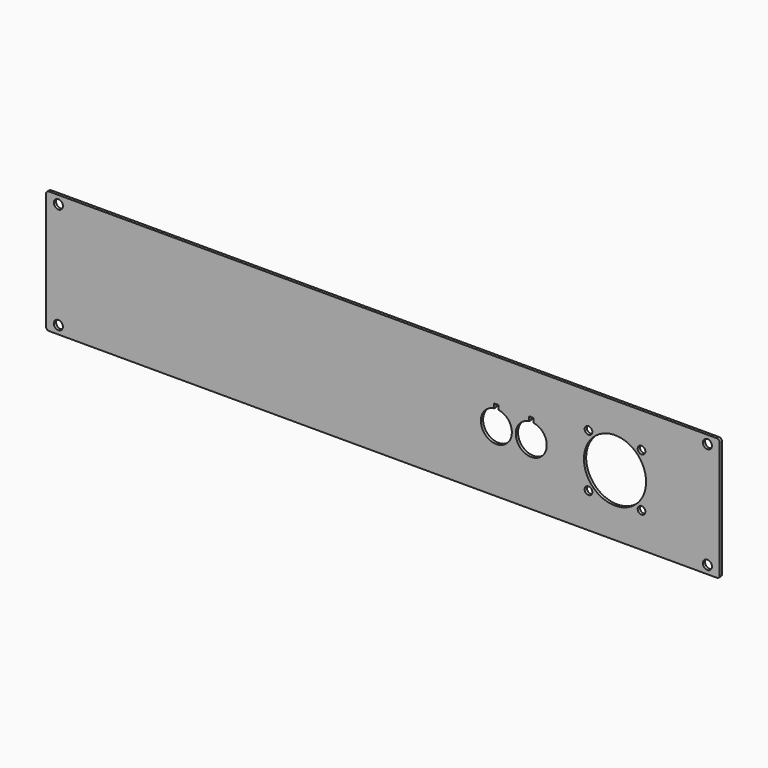
from build123d import *

# Parameters (mm, degrees)
F0_W     = 482.6
F0_H     = 88
F0_R     = 3.25
F0_R_2   = 2.75
F0_R_3   = 22.25
F1_DEPTH = 1
F2_R     = 2


with BuildPart() as f1:
    # F0 (on Front) → F1 (new body, symmetric)
    with BuildSketch(Plane.XZ):
        Rectangle(F0_W, F0_H)
        with Locations((-232.5, -38.075)):
            Circle(F0_R, mode=Mode.SUBTRACT)
        with Locations((232.5, -38.075)):
            Circle(F0_R, mode=Mode.SUBTRACT)
        with Locations((147.3, -19)):
            Circle(F0_R_2, mode=Mode.SUBTRACT)
        with Locations((185.3, -19)):
            Circle(F0_R_2, mode=Mode.SUBTRACT)
        with Locations((-232.5, 38.075)):
            Circle(F0_R, mode=Mode.SUBTRACT)
        with BuildLine():
            ThreePointArc((82.786364, 11.000033), (81.313763, -11.099991), (79.786364, 10.996313))
            Line((79.786364, 10.996313), (79.786364, 14.099066))
            Line((79.786364, 14.099066), (82.786364, 14.099066))
            Line((82.786364, 14.099066), (82.786364, 11.000033))
        make_face(mode=Mode.SUBTRACT)
        with BuildLine():
            ThreePointArc((107.786364, 11.000033), (106.313763, -11.099991), (104.786364, 10.996313))
            Line((104.786364, 10.996313), (104.786364, 14.099066))
            Line((104.786364, 14.099066), (107.786364, 14.099066))
            Line((107.786364, 14.099066), (107.786364, 11.000033))
        make_face(mode=Mode.SUBTRACT)
        with Locations((166.3, 0)):
            Circle(F0_R_3, mode=Mode.SUBTRACT)
        with Locations((147.3, 19)):
            Circle(F0_R_2, mode=Mode.SUBTRACT)
        with Locations((185.3, 19)):
            Circle(F0_R_2, mode=Mode.SUBTRACT)
        with Locations((232.5, 38.075)):
            Circle(F0_R, mode=Mode.SUBTRACT)
    extrude(amount=F1_DEPTH, both=True)

    # F2
    f2_edges = [f1.edges().sort_by_distance(p)[0] for p in [
        (241.3, 0, 44),
        (241.3, 0, -44),
        (-241.3, 0, -44),
        (-241.3, 0, 44),
    ]]
    fillet(f2_edges, radius=F2_R)


solid = f1.part
